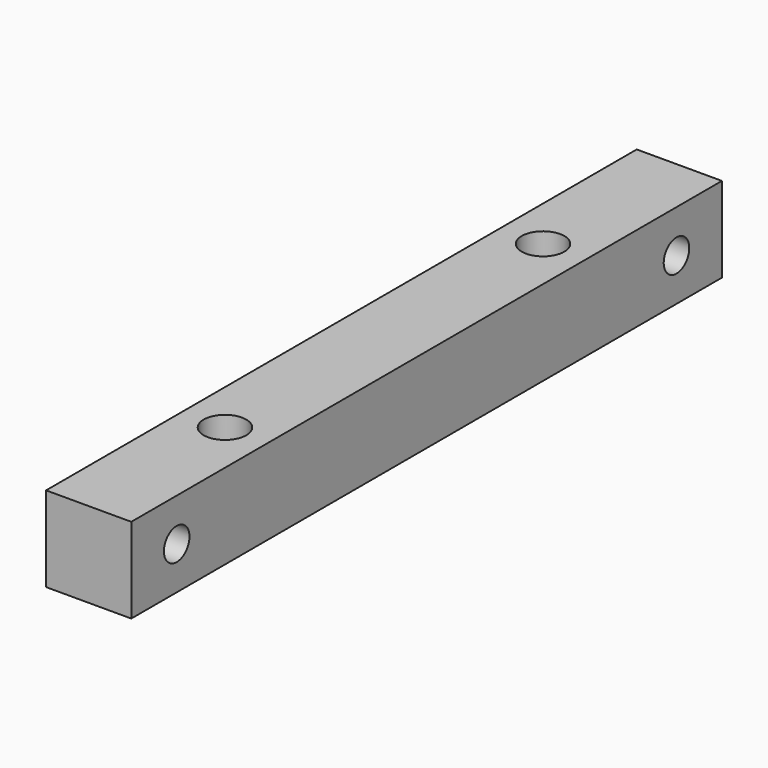
from build123d import *

# Parameters (mm, degrees)
F0_W     = 9.525
F0_H     = 9.525
F1_DEPTH = 41.275
F3_R     = 2.38125
F4_DEPTH = 9.525
F2_R     = 1.7859375
F5_DEPTH = 9.525


with BuildPart() as f1:
    # F0 (on Front) → F1 (new body, symmetric)
    with BuildSketch(Plane.XZ):
        Rectangle(F0_W, F0_H)
    extrude(amount=F1_DEPTH, both=True)

    # F3 (on face) → F4 (cut)
    with BuildSketch(Plane.XY.offset(4.7625)):
        with Locations((0, 22.225)):
            Circle(F3_R)
        with Locations((0, -22.225)):
            Circle(F3_R)
    extrude(amount=-F4_DEPTH, mode=Mode.SUBTRACT)

    # F2 (on face) → F5 (cut)
    with BuildSketch(Plane(origin=(-4.7625, 0, 0), x_dir=(0, -1, 0), z_dir=(-1, 0, 0))):
        with Locations((34.925, 0)):
            Circle(F2_R)
        with Locations((-34.925, 0)):
            Circle(F2_R)
    extrude(amount=-F5_DEPTH, mode=Mode.SUBTRACT)


solid = f1.part
